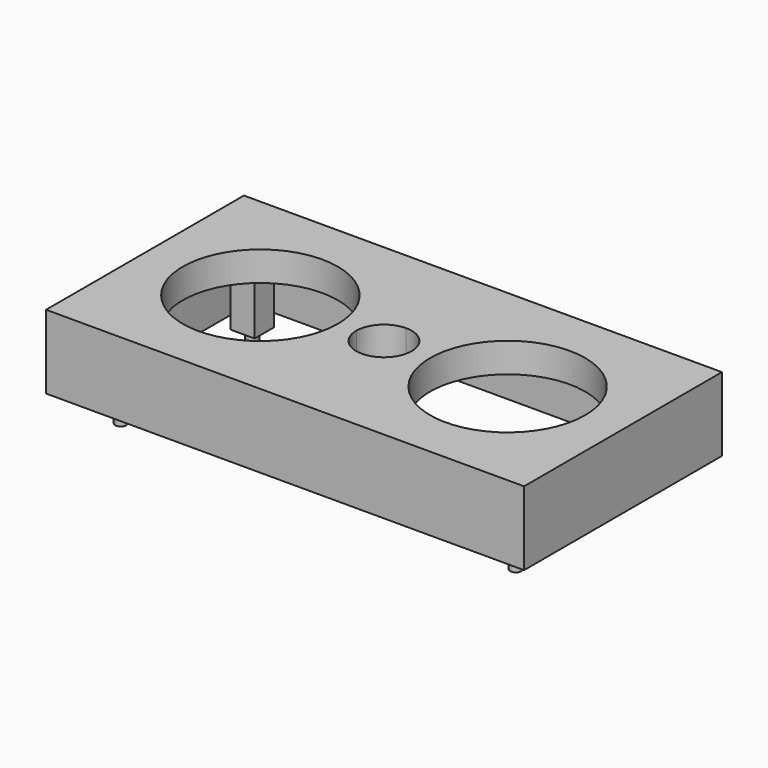
from build123d import *

# Parameters (mm, degrees)
F1_DEPTH = 1.6
F3_DEPTH = 8
F4_R     = 0.6
F5_DEPTH = 8
F4_W     = 2.6
F4_H     = 2.6
F6_DEPTH = 6.2


with BuildPart() as f1:
    # F0 (on Top) → F1 (new body, symmetric)
    with BuildSketch(Plane.XY):
        with BuildLine():
            Line((-5, 0), (-3, 0))
            ThreePointArc((-3, 0), (-2.12132, 2.12132), (0, 3))
            Line((0, 3), (0, 10.2))
            Line((0, 10.2), (-22.7, 10.2))
            Line((-22.7, 10.2), (-22.7, 0))
            Line((-22.7, 0), (-21.8, 0))
            ThreePointArc((-21.8, 0), (-13.4, 8.4), (-5, 0))
        make_face()
        with BuildLine():
            ThreePointArc((0, -3), (-2.12132, -2.12132), (-3, 0))
            Line((-3, 0), (-5, 0))
            ThreePointArc((-5, 0), (-13.4, -8.4), (-21.8, 0))
            Line((-21.8, 0), (-22.7, 0))
            Line((-22.7, 0), (-22.7, -10.2))
            Line((-22.7, -10.2), (0, -10.2))
            Line((0, -10.2), (0, -3))
        make_face()
        with BuildLine():
            Line((0, 10.2), (0, 3))
            ThreePointArc((0, 3), (2.12132, 2.12132), (3, 0))
            Line((3, 0), (5, 0))
            ThreePointArc((5, 0), (13.4, 8.4), (21.8, 0))
            Line((21.8, 0), (22.7, 0))
            Line((22.7, 0), (22.7, 10.2))
            Line((22.7, 10.2), (0, 10.2))
        make_face()
        with BuildLine():
            ThreePointArc((3, 0), (2.12132, -2.12132), (0, -3))
            Line((0, -3), (0, -10.2))
            Line((0, -10.2), (22.7, -10.2))
            Line((22.7, -10.2), (22.7, 0))
            Line((22.7, 0), (21.8, 0))
            ThreePointArc((21.8, 0), (13.4, -8.4), (5, 0))
            Line((5, 0), (3, 0))
        make_face()
    extrude(amount=F1_DEPTH, both=True)

    # F2 (on face) → F3 (join)
    with BuildSketch(Plane.XY.offset(1.6)):
        Polygon((-22.7, 10.2), (0, 10.2), (0, 13.4), (-25.9, 13.4), (-25.9, -13.4), (0, -13.4), (0, -10.2), (-22.7, -10.2), align=None)
        Polygon((0, 10.2), (22.7, 10.2), (22.7, -10.2), (0, -10.2), (0, -13.4), (25.9, -13.4), (25.9, 13.4), (0, 13.4), align=None)
    extrude(amount=-F3_DEPTH)

    # F4 (on face) → F5 (join)
    with BuildSketch(Plane(origin=(0, 0, -1.6), x_dir=(1, 0, 0), z_dir=(0, 0, -1))):
        with Locations((-21.4, 8.9)):
            Circle(F4_R)
        with Locations((-21.4, -8.9)):
            Circle(F4_R)
        with Locations((21.4, -8.9)):
            Circle(F4_R)
        with Locations((21.4, 8.9)):
            Circle(F4_R)
    extrude(amount=F5_DEPTH)

    # F4 (on face) → F6 (join)
    with BuildSketch(Plane(origin=(0, 0, -1.6), x_dir=(1, 0, 0), z_dir=(0, 0, -1))):
        with Locations((-21.4, 8.9)):
            Rectangle(F4_W, F4_H)
        with Locations((-21.4, 8.9)):
            Circle(F4_R, mode=Mode.SUBTRACT)
        with Locations((-21.4, -8.9)):
            Rectangle(F4_W, F4_H)
        with Locations((-21.4, -8.9)):
            Circle(F4_R, mode=Mode.SUBTRACT)
        with Locations((21.4, 8.9)):
            Rectangle(F4_W, F4_H)
        with Locations((21.4, 8.9)):
            Circle(F4_R, mode=Mode.SUBTRACT)
        with Locations((21.4, -8.9)):
            Rectangle(F4_W, F4_H)
        with Locations((21.4, -8.9)):
            Circle(F4_R, mode=Mode.SUBTRACT)
    extrude(amount=F6_DEPTH)


solid = f1.part
